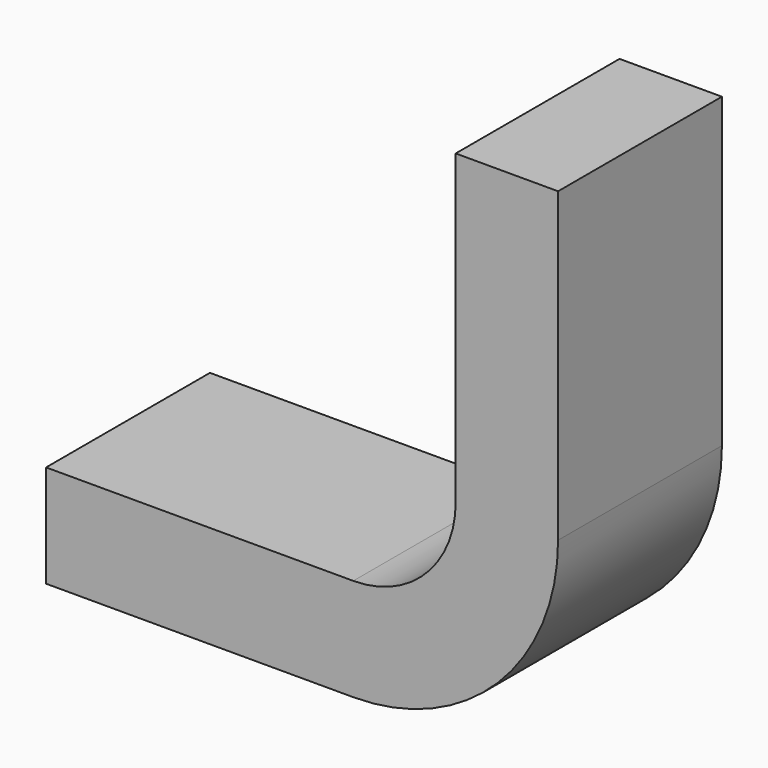
from build123d import *

# Parameters (mm, degrees)
PAD_DEPTH = 10


with BuildPart() as part:
    # Sketch → Pad (new body)
    with BuildSketch(Plane.XZ):
        with BuildLine():
            Line((0, 0), (15, 0))
            ThreePointArc((15, 0), (18.535534, 1.464466), (20, 5))
            Line((20, 5), (20, 20))
            Line((20, 20), (25, 20))
            Line((25, 20), (25, 5))
            ThreePointArc((15, -5), (22.071068, -2.071068), (25, 5))
            Line((15, -5), (0, -5))
            Line((0, -5), (0, 0))
        make_face()
    extrude(amount=PAD_DEPTH)


solid = part.part
